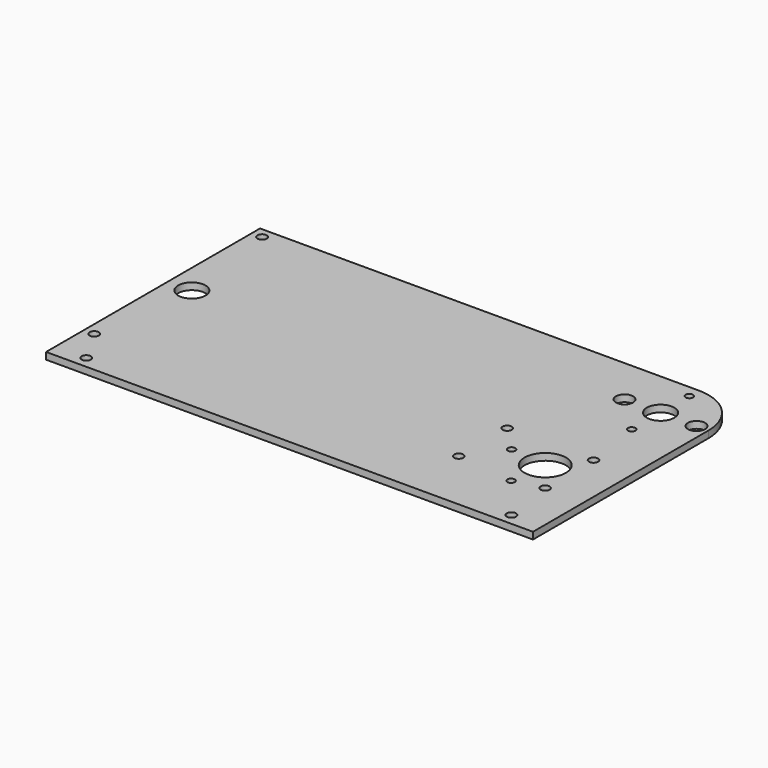
from build123d import *

# Parameters (mm, degrees)
F0_R     = 2.15265
F0_R_2   = 2.1
F0_R_3   = 1.7272
F0_R_4   = 9.587497
F0_R_5   = 6.35
F0_R_6   = 3.96875
F1_DEPTH = 3.175


with BuildPart() as f1:
    # F0 (on Top) → F1 (new body)
    with BuildSketch(Plane.XY):
        with BuildLine():
            Line((0, 22.225), (-203.2, 22.225))
            Line((-203.2, 22.225), (-203.2, -101.6))
            Line((-203.2, -101.6), (22.225, -101.6))
            Line((22.225, -101.6), (22.225, -90.805))
            Line((22.225, -90.805), (22.225, 0))
            ThreePointArc((22.225, 0), (15.715448, 15.715448), (0, 22.225))
        make_face()
        with Locations((-188.9125, -96.2025)):
            Circle(F0_R, mode=Mode.SUBTRACT)
        with Locations((-198.4375, -79.6925)):
            Circle(F0_R, mode=Mode.SUBTRACT)
        with Locations((-35.729847, -72.110361)):
            Circle(F0_R_2, mode=Mode.SUBTRACT)
        with Locations((7.9375, -96.2025)):
            Circle(F0_R, mode=Mode.SUBTRACT)
        with Locations((-8.920831, -75.349563)):
            Circle(F0_R_3, mode=Mode.SUBTRACT)
        with Locations((4.270153, -72.110361)):
            Circle(F0_R_2, mode=Mode.SUBTRACT)
        with Locations((-35.729847, -44.110361)):
            Circle(F0_R_2, mode=Mode.SUBTRACT)
        with Locations((-24.119039, -56.069367)):
            Circle(F0_R_3, mode=Mode.SUBTRACT)
        with Locations((-6.879837, -58.110361)):
            Circle(F0_R_4, mode=Mode.SUBTRACT)
        with Locations((4.270153, -44.110361)):
            Circle(F0_R_2, mode=Mode.SUBTRACT)
        with Locations((-192.0875, -31.115)):
            Circle(F0_R_5, mode=Mode.SUBTRACT)
        with Locations((-198.4375, 17.4625)):
            Circle(F0_R, mode=Mode.SUBTRACT)
        with Locations((0, -16.66875)):
            Circle(F0_R_3, mode=Mode.SUBTRACT)
        with Locations((-16.66875, 0)):
            Circle(F0_R_6, mode=Mode.SUBTRACT)
        Circle(F0_R_5, mode=Mode.SUBTRACT)
        with Locations((16.66875, 0)):
            Circle(F0_R_6, mode=Mode.SUBTRACT)
        with Locations((0, 16.66875)):
            Circle(F0_R_3, mode=Mode.SUBTRACT)
    extrude(amount=F1_DEPTH)


solid = f1.part
